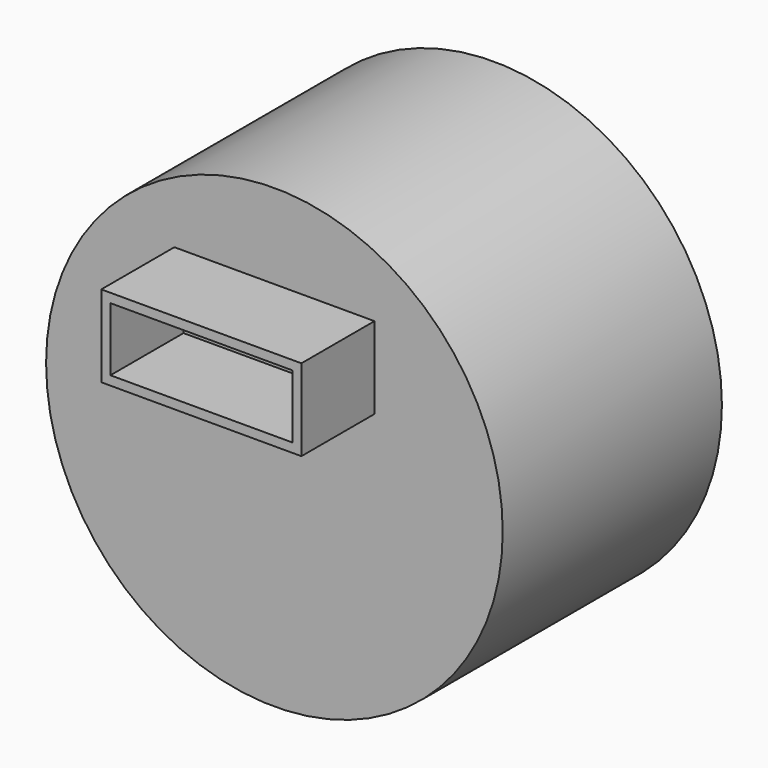
from build123d import *

# Parameters (mm, degrees)
F0_R     = 6.35
F1_DEPTH = 7.62
F2_R     = 5.55625
F3_DEPTH = 1.5875
F4_W     = 5.565012
F4_H     = 2.274479
F4_W_2   = 5.057012
F4_H_2   = 1.766479
F5_DEPTH = 2.54


with BuildPart() as f1:
    # F0 (on Front) → F1 (new body)
    with BuildSketch(Plane.XZ):
        Circle(F0_R)
    extrude(amount=F1_DEPTH)

    # F2 (on face) → F3 (cut)
    with BuildSketch(Plane(origin=(0, 0, 0), x_dir=(-1, 0, 0), z_dir=(0, 1, 0))):
        Circle(F2_R)
    extrude(amount=-F3_DEPTH, mode=Mode.SUBTRACT)

    # F4 (on face) → F5 (join)
    with BuildSketch(Plane.XZ.offset(7.62)):
        with Locations((0, 2.855948)):
            Rectangle(F4_W, F4_H)
        with Locations((0, 2.855948)):
            Rectangle(F4_W_2, F4_H_2, mode=Mode.SUBTRACT)
    extrude(amount=F5_DEPTH)


solid = f1.part
